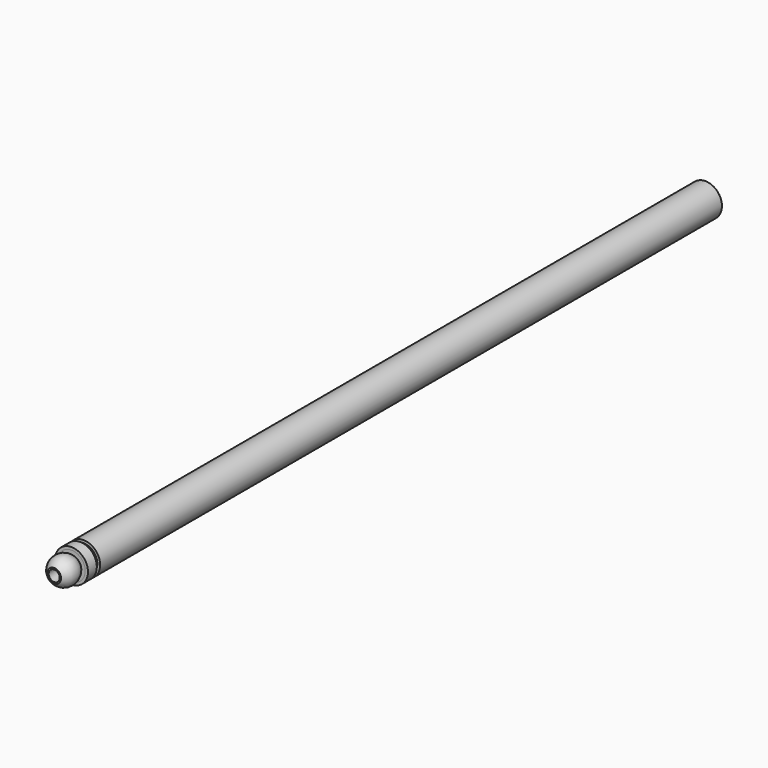
from build123d import *

# Parameters (mm, degrees)
F2_W = 1
F2_H = 282


with BuildPart() as f1:
    # F0 (on Top) → F1 (revolve)
    with BuildSketch(Plane.XY):
        with BuildLine():
            ThreePointArc((-3.570714, -3), (-2.613631, -2.237497), (-1.5, -1.730304))
            Line((-1.5, -1.730304), (-1.5, 0))
            Line((-1.5, 0), (-5, 0))
            Line((-5, 0), (-5, -3))
            Line((-5, -3), (-3.570714, -3))
        make_face()
    revolve(axis=Axis((0, -3.25, 0), (0, -1, 0)))


with BuildPart() as f3:
    # F2 (on Top) → F3 (revolve)
    with BuildSketch(Plane.XY):
        with Locations((-5.5, 143.5)):
            Rectangle(F2_W, F2_H)
    revolve(axis=Axis((0, -3.25, 0), (0, -1, 0)))


with BuildPart() as f5:
    # F4 (on Top) → F5 (revolve)
    with BuildSketch(Plane.XY):
        Polygon((-5, 1), (-6, 1), (-6, -3), (-5, -3), (-5, 0), (-3.5, 0), (-3.5, 12.5), (-5, 12.5), (-5, 2.5), align=None)
    revolve(axis=Axis((0, -3.25, 0), (0, -1, 0)))


with BuildPart() as f6:
    # F0 (on Top) → F6 (revolve)
    with BuildSketch(Plane.XY):
        with BuildLine():
            Line((0, -6.5), (0, -1.5))
            ThreePointArc((0, -1.5), (-0.758788, -1.557911), (-1.5, -1.730304))
            ThreePointArc((-1.5, -1.730304), (-2.613631, -2.237497), (-3.570714, -3))
            ThreePointArc((-3.570714, -3), (-4.953899, -7.17741), (-2.5, -10.830127))
            Line((-2.5, -10.830127), (-2, -10.830127))
            Line((-2, -10.830127), (-2, -6.5))
            Line((-2, -6.5), (0, -6.5))
        make_face()
    revolve(axis=Axis((0, -9, 0), (0, 1, 0)))


solid = Compound([f1.part, f3.part, f5.part, f6.part])
